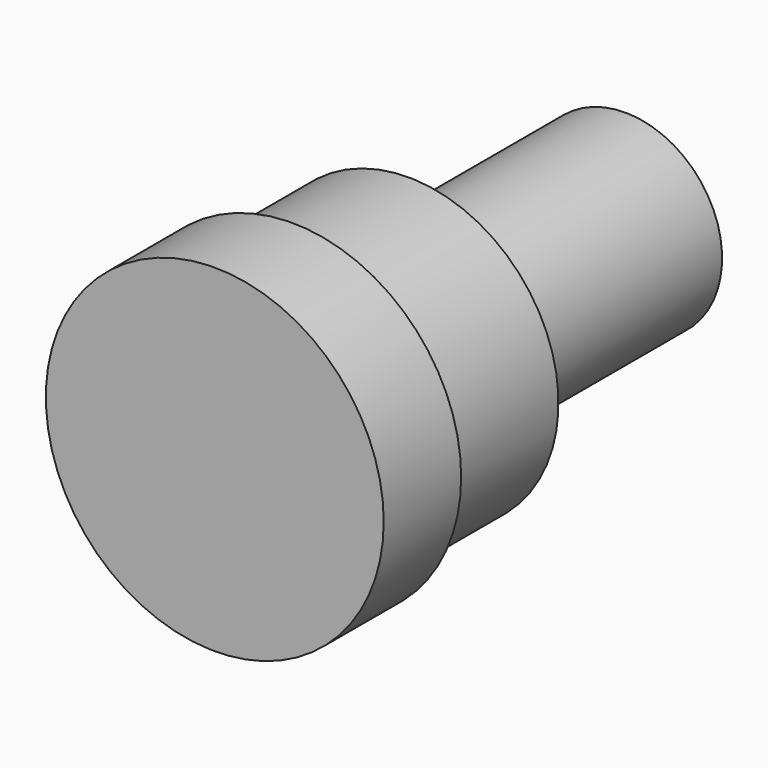
from build123d import *

# Parameters (mm, degrees)
F0_R     = 17.4495
F1_DEPTH = 25
F2_R     = 26.49903
F2_R_2   = 15.5
F3_DEPTH = 15
F4_R     = 10
F5_DEPTH = 28


with BuildPart() as f1:
    # F0 (on Front) → F1 (new body)
    with BuildSketch(Plane.XZ):
        Circle(F0_R)
    extrude(amount=F1_DEPTH)

    # F2 (on face) → F3 (cut)
    with BuildSketch(Plane(origin=(0, 0, 0), x_dir=(-1, 0, 0), z_dir=(0, 1, 0))):
        with Locations((2.900601, 0)):
            Circle(F2_R)
        Circle(F2_R_2, mode=Mode.SUBTRACT)
    extrude(amount=-F3_DEPTH, mode=Mode.SUBTRACT)

    # F4 (on face) → F5 (join)
    with BuildSketch(Plane(origin=(0, 0, 0), x_dir=(-1, 0, 0), z_dir=(0, 1, 0))):
        Circle(F4_R)
    extrude(amount=F5_DEPTH)


solid = f1.part
